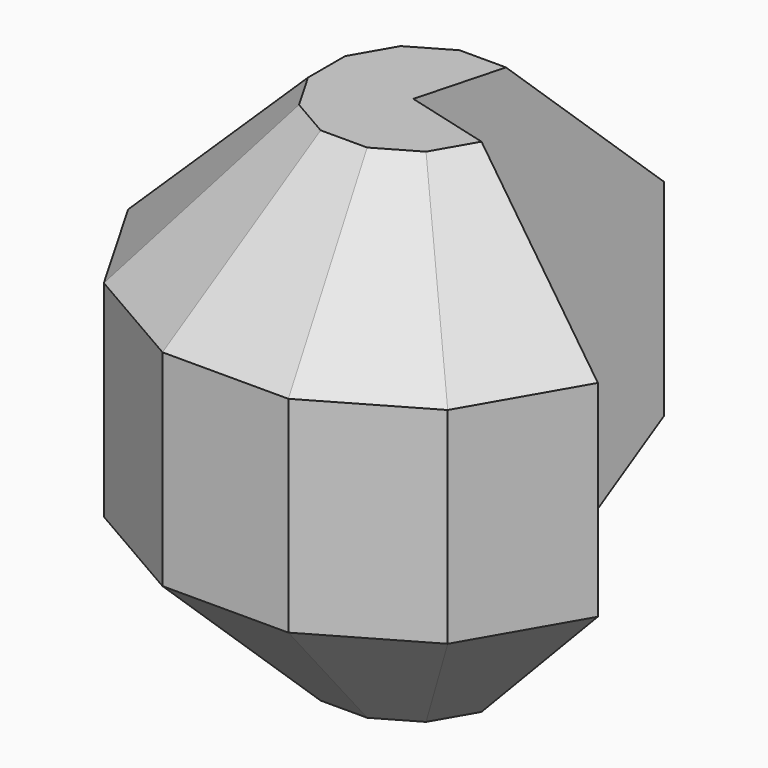
from build123d import *

# Parameters (mm, degrees)
F1_DEPTH = 50.8
F2_SIZE  = 14.986


with BuildPart() as f1:
    # F0 (on Top) → F1 (new body)
    with BuildSketch(Plane.XY):
        Polygon((-6.367977, -23.765615), (6.367977, -23.765615), (17.397638, -17.397638), (23.765615, -6.367977), (0, 0), (6.367977, 23.765615), (-6.367977, 23.765615), (-17.397638, 17.397638), (-23.765615, 6.367977), (-23.765615, -6.367977), (-17.397638, -17.397638), align=None)
    extrude(amount=F1_DEPTH)

    # F2
    f2_edges = [f1.edges().sort_by_distance(p)[0] for p in [
        (0, 23.765615, 50.8),
        (-11.882808, 20.581626, 50.8),
        (-20.581626, 11.882808, 50.8),
        (-23.765615, 0, 50.8),
        (-20.581626, -11.882808, 50.8),
        (-11.882808, -20.581626, 50.8),
        (0, 23.765615, 0),
        (-11.882808, 20.581626, 0),
        (-20.581626, 11.882808, 0),
        (-23.765615, 0, 0),
        (-20.581626, -11.882808, 0),
        (-11.882808, -20.581626, 0),
        (20.581626, -11.882808, 0),
        (11.882808, -20.581626, 0),
        (0, -23.765615, 0),
        (20.581626, -11.882808, 50.8),
        (11.882808, -20.581626, 50.8),
        (0, -23.765615, 50.8),
    ]]
    chamfer(f2_edges, length=F2_SIZE)


solid = f1.part
